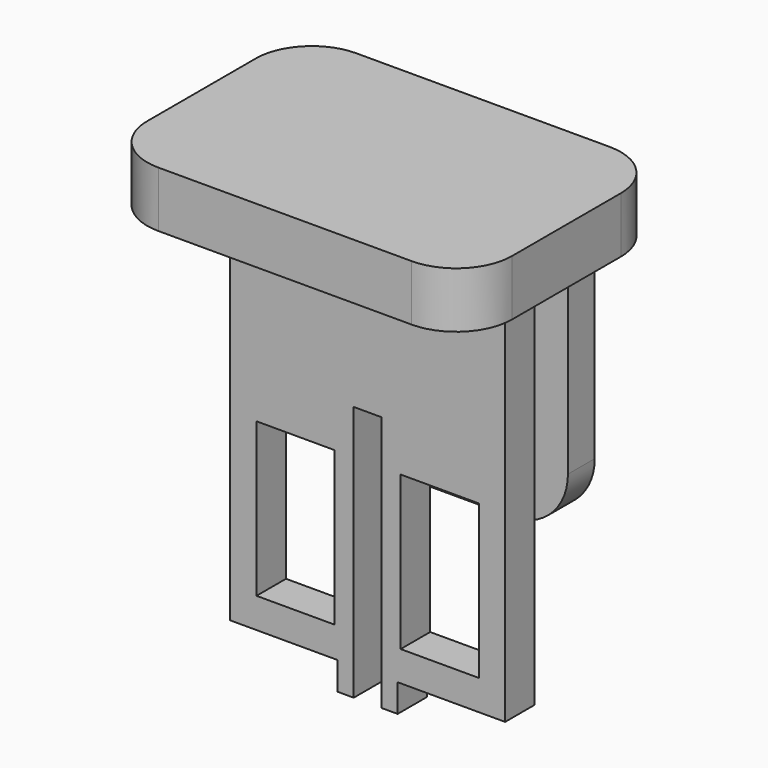
from build123d import *

# Parameters (mm, degrees)
F1_DEPTH = 5
F3_DEPTH = 3
F5_DEPTH = 2.35
F7_W     = 7
F7_H     = 13.75
F8_DEPTH = 3.3


with BuildPart() as f1:
    # F0 (on Top) → F1 (new body)
    with BuildSketch(Plane.XY):
        with BuildLine():
            ThreePointArc((16.33, 6.075), (14.8655339059, 9.6105339059), (11.33, 11.075))
            Line((11.33, 11.075), (-11.33, 11.075))
            ThreePointArc((-11.33, 11.075), (-14.8655339059, 9.6105339059), (-16.33, 6.075))
            Line((-16.33, 6.075), (-16.33, -6.075))
            ThreePointArc((-16.33, -6.075), (-14.8655339059, -9.6105339059), (-11.33, -11.075))
            Line((-11.33, -11.075), (11.33, -11.075))
            ThreePointArc((11.33, -11.075), (14.8655339059, -9.6105339059), (16.33, -6.075))
            Line((16.33, -6.075), (16.33, 6.075))
        make_face()
    extrude(amount=F1_DEPTH)

    # F2 (on face) → F3 (join)
    with BuildSketch(Plane(origin=(0, 11.075, 0), x_dir=(-1, 0, 0), z_dir=(0, 1, 0))):
        with BuildLine():
            Line((10, -20), (10, 5))
            Line((10, 5), (-10, 5))
            Line((-10, 5), (-10, -20))
            ThreePointArc((-10, -20), (-8.5355339059, -23.5355339059), (-5, -25))
            Line((-5, -25), (5, -25))
            ThreePointArc((5, -25), (8.5355339059, -23.5355339059), (10, -20))
        make_face()
    extrude(amount=-F3_DEPTH)

    # F4 (on Right) → F5 (join, symmetric)
    with BuildSketch(Plane.YZ):
        Polygon((5.575, -20.645), (8.075, -23), (8.075, -18.29), align=None)
    extrude(amount=F5_DEPTH, both=True)

    # F7 (on offset) → F8 (join)
    with BuildSketch(Plane.XZ.offset(-1.475)):
        Polygon((12.3, 5), (-12.3, 5), (-12.3, -34.75), (-2.68, -34.75), (-2.68, -37.25), (-1.25, -37.25), (-1.25, -14.34), (1.25, -14.34), (1.25, -37.25), (2.68, -37.25), (2.68, -34.75), (12.3, -34.75), align=None)
        with Locations((-6.45, -25.175)):
            Rectangle(F7_W, F7_H, mode=Mode.SUBTRACT)
        with Locations((6.45, -25.175)):
            Rectangle(F7_W, F7_H, mode=Mode.SUBTRACT)
    extrude(amount=F8_DEPTH)


solid = f1.part
